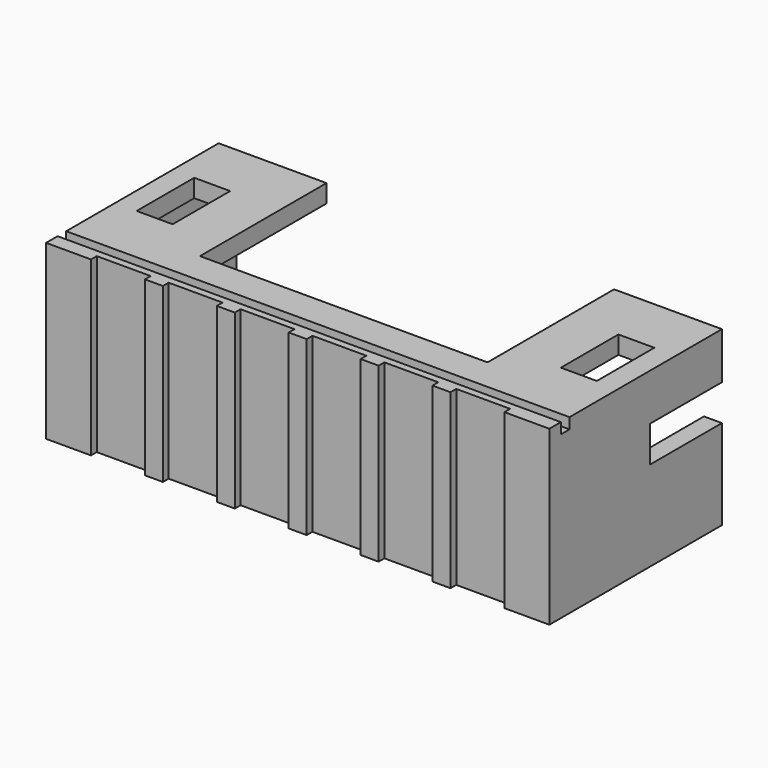
from build123d import *

# Parameters (mm, degrees)
SKETCH_W             = 14
SKETCH_H             = 6
PAD_DEPTH            = 4.8
THICKNESS_T          = -0.5
SKETCH001_W          = 8
SKETCH001_H          = 4.4
SKETCH001_W_2        = 1
SKETCH001_H_2        = 2
POCKET_DEPTH         = 0.5
SKETCH002_W          = 2.5
SKETCH002_H          = 1
SKETCH002_W_2        = 0.3
SKETCH002_H_2        = 0.3
POCKET001_DEPTH      = 7.001
POCKET001_DEPTH_BACK = 7.001
SKETCH004_W          = 1.5
SKETCH004_H          = 0.2
POCKET002_DEPTH      = 0.001
POCKET002_DEPTH_BACK = 4.801
LINEARPATTERN_COUNT  = 6
LINEARPATTERN_PITCH  = 2


with BuildPart() as part:
    # Sketch → Pad (new body)
    with BuildSketch(Plane.XY):
        with Locations((0, 3.4)):
            Rectangle(SKETCH_W, SKETCH_H)
    extrude(amount=PAD_DEPTH)

    # Thickness
    thickness_openings = [part.faces().sort_by_distance(p)[0] for p in [
        (0, 6.4, 2.4),
    ]]
    offset(amount=THICKNESS_T, openings=thickness_openings)

    # Sketch001 → Pocket (cut)
    with BuildSketch(Plane.XY.offset(4.8)):
        with Locations((0, 4.2)):
            Rectangle(SKETCH001_W, SKETCH001_H)
        with Locations((5.9, 3.8)):
            Rectangle(SKETCH001_W_2, SKETCH001_H_2)
        with Locations((-5.9, 3.8)):
            Rectangle(SKETCH001_W_2, SKETCH001_H_2)
    extrude(amount=-POCKET_DEPTH, mode=Mode.SUBTRACT)

    # Sketch002 → Pocket001 (cut, two sides)
    with BuildSketch(Plane.YZ) as pocket001_sk:
        with Locations((5.15, 3)):
            Rectangle(SKETCH002_W, SKETCH002_H)
        with Locations((0.95, 4.65)):
            Rectangle(SKETCH002_W_2, SKETCH002_H_2)
    extrude(amount=-POCKET001_DEPTH, mode=Mode.SUBTRACT)
    extrude(pocket001_sk.sketch, amount=POCKET001_DEPTH_BACK, mode=Mode.SUBTRACT)

    # Sketch004 → Pocket002 (cut, two sides)
    with BuildSketch(Plane.XY) as pocket002_sk:
        with Locations((-5, 0.5)):
            Rectangle(SKETCH004_W, SKETCH004_H)
    pocket002 = extrude(amount=-POCKET002_DEPTH, mode=Mode.SUBTRACT) + extrude(pocket002_sk.sketch, amount=POCKET002_DEPTH_BACK, mode=Mode.SUBTRACT)

    # LinearPattern: Pocket002 ×6
    with Locations(*[(i * LINEARPATTERN_PITCH, 0, 0) for i in range(1, LINEARPATTERN_COUNT)]):
        add(pocket002, mode=Mode.SUBTRACT)


solid = part.part
